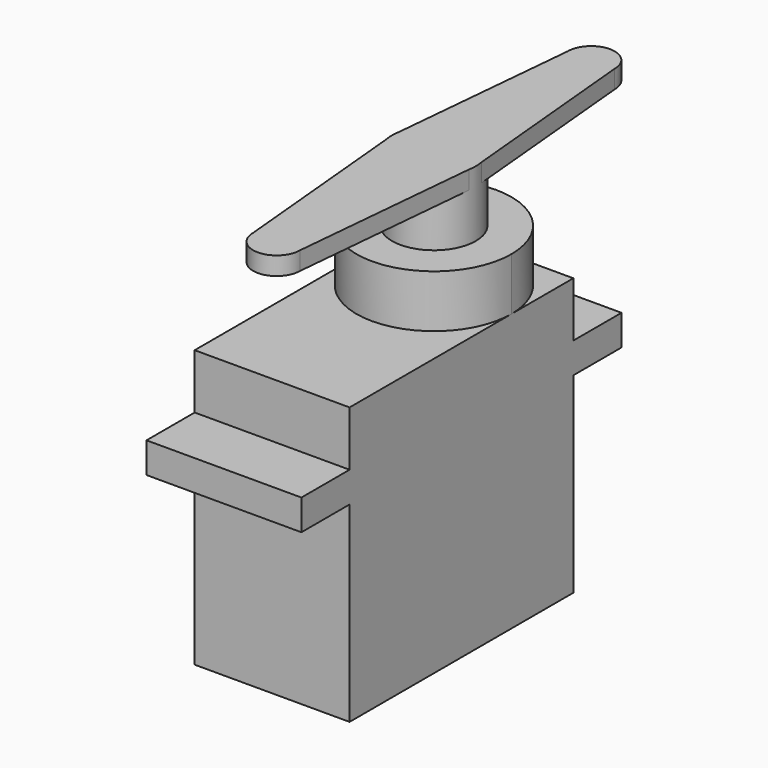
from build123d import *

# Parameters (mm, degrees)
F0_W      = 12.5476
F0_H      = 22.6568
F1_DEPTH  = 22.4282
F3_W      = 12.5476
F3_H      = 22.6568
F3_H_2    = 4.8768
F4_DEPTH  = 2.4765
F6_DEPTH  = 4.2672
F7_R      = 3.3909
F8_DEPTH  = 5.334
F10_DEPTH = 1.4732


with BuildPart() as f1:
    # F0 (on Top) → F1 (new body)
    with BuildSketch(Plane.XY):
        Rectangle(F0_W, F0_H)
    extrude(amount=F1_DEPTH)

    # F3 (on offset) → F4 (join)
    with BuildSketch(Plane.XY.offset(17.9832)):
        Rectangle(F3_W, F3_H)
        with Locations((0, -13.7668)):
            Rectangle(F3_W, F3_H_2)
        with Locations((0, 13.7668)):
            Rectangle(F3_W, F3_H_2)
    extrude(amount=-F4_DEPTH)

    # F5 (on face) → F6 (join)
    with BuildSketch(Plane.XY.offset(22.4282)):
        with BuildLine():
            ThreePointArc((-6.2738, 5.0546), (0, -1.2192), (6.2738, 5.0546))
            ThreePointArc((6.2738, 5.0546), (4.4362465254, 9.4908465222), (4.5e-09, 11.3284))
            ThreePointArc((4.5e-09, 11.3284), (-4.4362465222, 9.4908465254), (-6.2738, 5.0546))
        make_face()
    extrude(amount=F6_DEPTH)

    # F7 (on face) → F8 (join)
    with BuildSketch(Plane.XY.offset(26.6954)):
        with Locations((0, 5.0546)):
            Circle(F7_R)
    extrude(amount=F8_DEPTH)

    # F9 (on face) → F10 (join)
    with BuildSketch(Plane.XY.offset(32.0294)):
        with BuildLine():
            Line((3.3909, 5.0546), (3.3323728486, 4.4273089926))
            ThreePointArc((3.3323728486, 4.4273089926), (3.376236507, 4.7395922876), (3.3909, 5.0546))
        make_face()
        with BuildLine():
            Line((1.905, -10.8712), (3.3323728486, 4.4273089926))
            Line((3.3323728486, 4.4273089926), (3.3909, 5.0546))
            Line((3.3909, 5.0546), (3.3323728486, 5.6818910074))
            Line((3.3323728486, 5.6818910074), (1.905, 20.9804))
            ThreePointArc((1.905, 20.9804), (0, 22.8854), (-1.905, 20.9804))
            Line((-1.905, 20.9804), (-3.3323728486, 5.6818910074))
            Line((-3.3323728486, 5.6818910074), (-3.3909, 5.0546))
            Line((-3.3909, 5.0546), (-3.3323728486, 4.4273089926))
            Line((-3.3323728486, 4.4273089926), (-1.905, -10.8712))
            ThreePointArc((-1.905, -10.8712), (0, -12.7762), (1.905, -10.8712))
        make_face()
        with BuildLine():
            Line((3.3323728486, 5.6818910074), (3.3909, 5.0546))
            ThreePointArc((3.3909, 5.0546), (3.376236507, 5.3696077124), (3.3323728486, 5.6818910074))
        make_face()
        with BuildLine():
            ThreePointArc((-3.3909, 5.0546), (-3.376236507, 4.7395922876), (-3.3323728486, 4.4273089926))
            Line((-3.3323728486, 4.4273089926), (-3.3909, 5.0546))
        make_face()
        with BuildLine():
            ThreePointArc((-3.3323728486, 5.6818910074), (-3.376236507, 5.3696077124), (-3.3909, 5.0546))
            Line((-3.3909, 5.0546), (-3.3323728486, 5.6818910074))
        make_face()
    extrude(amount=-F10_DEPTH)


solid = f1.part
